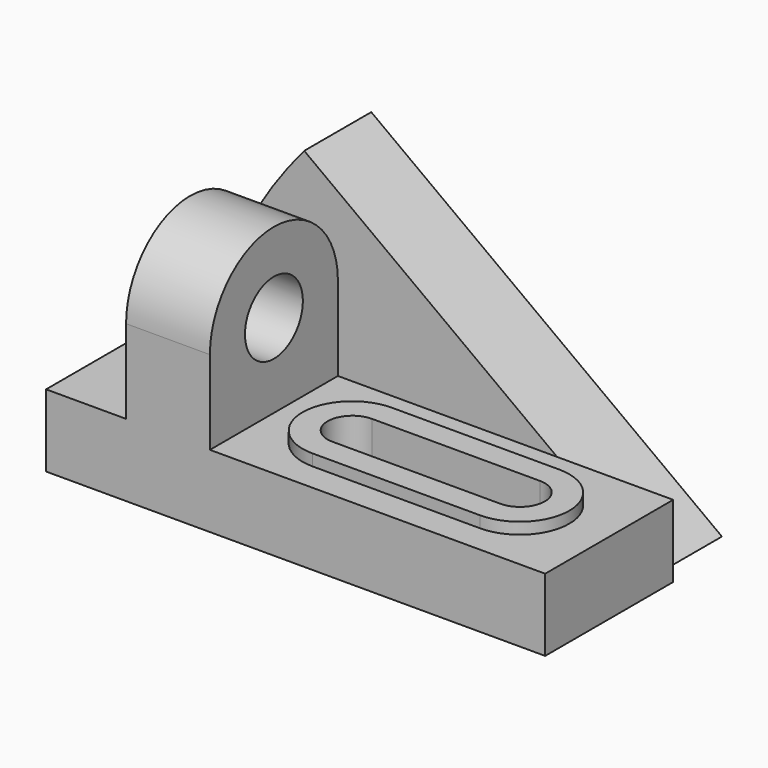
from build123d import *

# Parameters (mm, degrees)
F0_W      = 131
F0_H      = 19
F1_DEPTH  = 42
F2_W      = 22
F2_H      = 22
F3_DEPTH  = 42
F5_DEPTH  = 22
F6_R      = 9.5
F7_DEPTH  = 43.001
F9_DEPTH  = 19.001
F12_DEPTH = 22
F13_DEPTH = 3


with BuildPart() as f1:
    # F0 (on Front) → F1 (new body)
    with BuildSketch(Plane.XZ):
        with Locations((65.5, 9.5)):
            Rectangle(F0_W, F0_H)
    extrude(amount=-F1_DEPTH)

    # F2 (on face) → F3 (join)
    with BuildSketch(Plane.XZ):
        with Locations((32, 30)):
            Rectangle(F2_W, F2_H)
    extrude(amount=-F3_DEPTH)

    # F4 (on face) → F5 (join)
    with BuildSketch(Plane.YZ.offset(43)):
        with BuildLine():
            Line((0, 41), (42, 41))
            ThreePointArc((42, 41), (21, 62), (0, 41))
        make_face()
    extrude(amount=-F5_DEPTH)

    # F6 (on face) → F7 (cut, through all)
    with BuildSketch(Plane.YZ.offset(43)):
        with Locations((21, 41)):
            Circle(F6_R)
    extrude(amount=-F7_DEPTH, mode=Mode.SUBTRACT)

    # F8 (on face) → F9 (cut, through all)
    with BuildSketch(Plane.XY.offset(19)):
        with BuildLine():
            ThreePointArc((64, 27), (57.5, 20.5), (64, 14))
            Line((64, 14), (108, 14))
            ThreePointArc((108, 14), (114.5, 20.5), (108, 27))
            Line((108, 27), (64, 27))
        make_face()
    extrude(amount=-F9_DEPTH, mode=Mode.SUBTRACT)

    # F11 (on face) → F12 (join)
    with BuildSketch(Plane(origin=(0, 42, 0), x_dir=(-1, 0, 0), z_dir=(0, 1, 0))):
        with BuildLine():
            Line((-34.1583360178, 68.1544452659), (-126.1935941596, 0))
            Line((-126.1935941596, 0), (-5.6412019979, 0))
            ThreePointArc((-5.6412019979, 0), (-14.5708616504, 36.3069402207), (-34.1583360178, 68.1544452659))
        make_face()
    extrude(amount=F12_DEPTH)

    # F10 (on face) → F13 (join)
    with BuildSketch(Plane.XY.offset(19)):
        with BuildLine():
            Line((108, 33.4034413099), (64, 33.4034413099))
            ThreePointArc((64, 33.4034413099), (51, 20.4034413099), (64, 7.4034413099))
            Line((64, 7.4034413099), (108, 7.4034413099))
            ThreePointArc((108, 7.4034413099), (121, 20.4034413099), (108, 33.4034413099))
        make_face()
        with BuildLine():
            Line((108, 14), (64, 14))
            ThreePointArc((64, 14), (57.5, 20.5), (64, 27))
            Line((64, 27), (108, 27))
            ThreePointArc((108, 27), (114.5, 20.5), (108, 14))
        make_face(mode=Mode.SUBTRACT)
    extrude(amount=F13_DEPTH)


solid = f1.part
